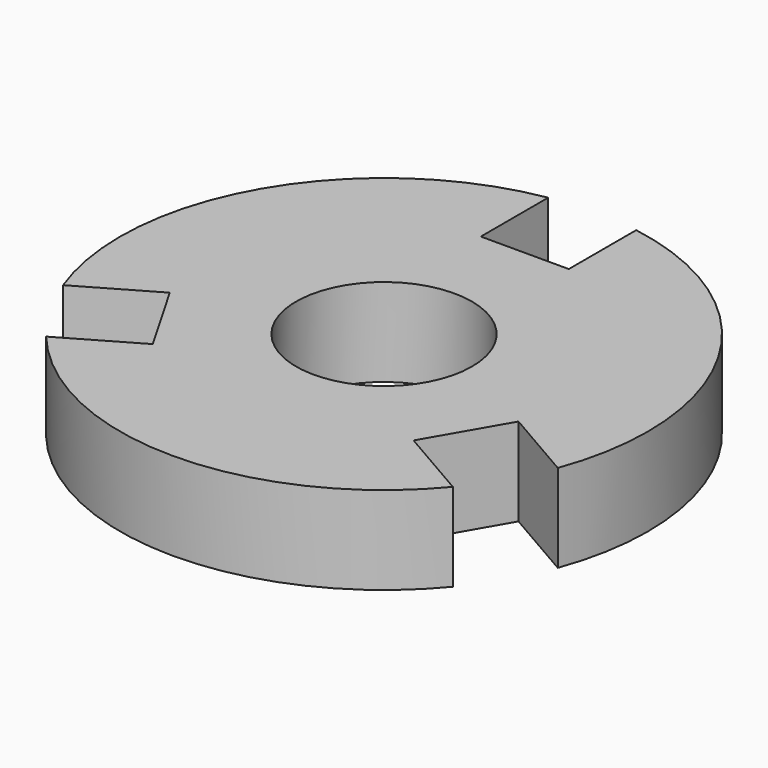
from build123d import *

# Parameters (mm, degrees)
F0_R     = 12.7
F1_DEPTH = 12.7


with BuildPart() as f1:
    # F0 (on Top) → F1 (new body)
    with BuildSketch(Plane.XY):
        with BuildLine():
            Line((-6.35, 25.4), (-6.35, 37.567107))
            ThreePointArc((-6.35, 37.567107), (-32.995568, 19.05), (-35.709069, -13.284292))
            Line((-35.709069, -13.284292), (-25.172045, -7.200739))
            Line((-25.172045, -7.200739), (-18.822045, -18.199261))
            Line((-18.822045, -18.199261), (-29.359069, -24.282815))
            ThreePointArc((-29.359069, -24.282815), (0, -38.1), (29.359069, -24.282815))
            Line((29.359069, -24.282815), (18.822045, -18.199261))
            Line((18.822045, -18.199261), (25.172045, -7.200739))
            Line((25.172045, -7.200739), (35.709069, -13.284292))
            ThreePointArc((35.709069, -13.284292), (32.995568, 19.05), (6.35, 37.567107))
            Line((6.35, 37.567107), (6.35, 25.4))
            Line((6.35, 25.4), (-6.35, 25.4))
        make_face()
        Circle(F0_R, mode=Mode.SUBTRACT)
    extrude(amount=F1_DEPTH)


solid = f1.part
